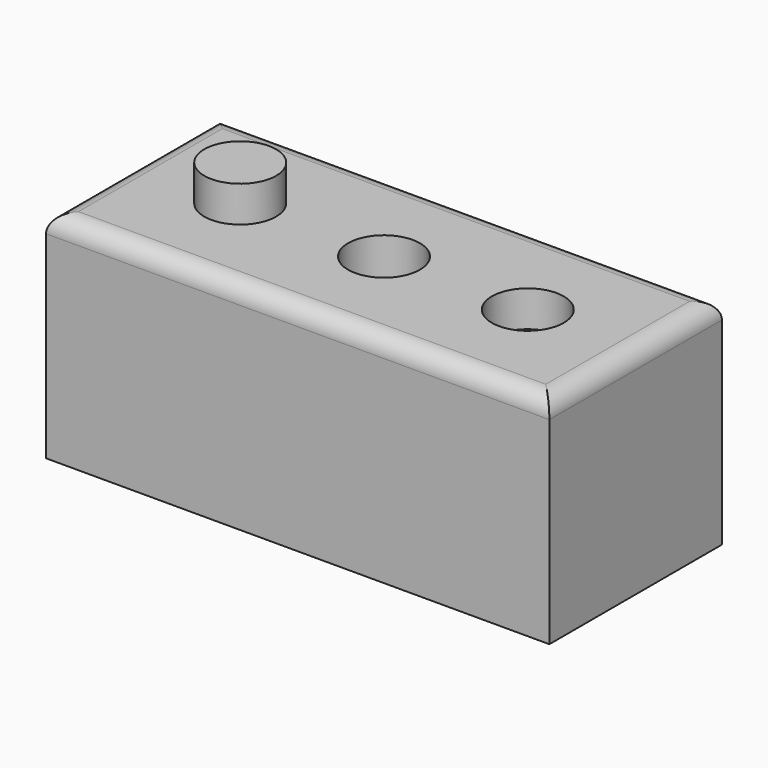
from build123d import *

# Parameters (mm, degrees)
F0_W     = 140
F0_H     = 60
F1_DEPTH = 60
F2_R     = 10
F5_DEPTH = 10
F3_R     = 10
F6_DEPTH = 10
F4_R     = 10
F7_DEPTH = 109.5
F8_R     = 5


with BuildPart() as f1:
    # F0 (on Top) → F1 (new body)
    with BuildSketch(Plane.XY):
        Rectangle(F0_W, F0_H)
    extrude(amount=F1_DEPTH)

    # F2 (on face) → F5 (join)
    with BuildSketch(Plane.XY.offset(60)):
        with Locations((-40, 0)):
            Circle(F2_R)
    extrude(amount=F5_DEPTH)

    # F3 (on face) → F6 (cut)
    with BuildSketch(Plane.XY.offset(60)):
        with Locations((40, 0)):
            Circle(F3_R)
    extrude(amount=-F6_DEPTH, mode=Mode.SUBTRACT)

    # F4 (on face) → F7 (cut)
    with BuildSketch(Plane.XY.offset(60)):
        Circle(F4_R)
    extrude(amount=-F7_DEPTH, mode=Mode.SUBTRACT)

    # F8
    f8_edges = [f1.edges().sort_by_distance(p)[0] for p in [
        (-70, 0, 60),
        (0, 30, 60),
        (70, 0, 60),
        (0, -30, 60),
    ]]
    fillet(f8_edges, radius=F8_R)


solid = f1.part
